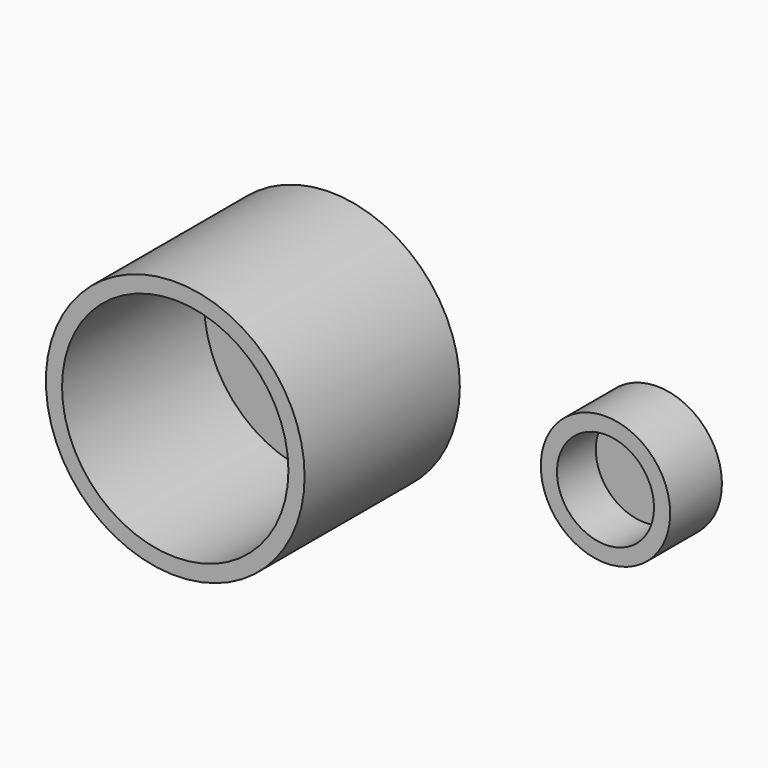
from build123d import *

# Parameters (mm, degrees)
F0_R     = 25.4
F1_DEPTH = 25.4
F0_R_2   = 50.8
F2_DEPTH = 76.2
F3_T     = -6.35
F3_2_T   = -6.35


with BuildPart() as f1:
    # F0 (on Front) → F1 (new body)
    with BuildSketch(Plane.XZ):
        with Locations((75.401135, 0)):
            Circle(F0_R)
    extrude(amount=F1_DEPTH)

    # F3#2
    f3_2_openings = [f1.faces().sort_by_distance(p)[0] for p in [
        (75.401135, -25.4, 0),
    ]]
    offset(amount=F3_2_T, openings=f3_2_openings)


with BuildPart() as f2:
    # F0 (on Front) → F2 (new body)
    with BuildSketch(Plane.XZ):
        with Locations((-52.90984, 0)):
            Circle(F0_R_2)
    extrude(amount=F2_DEPTH)

    # F3
    f3_openings = [f2.faces().sort_by_distance(p)[0] for p in [
        (-52.90984, -76.2, 0),
    ]]
    offset(amount=F3_T, openings=f3_openings)


solid = Compound([f1.part, f2.part])
